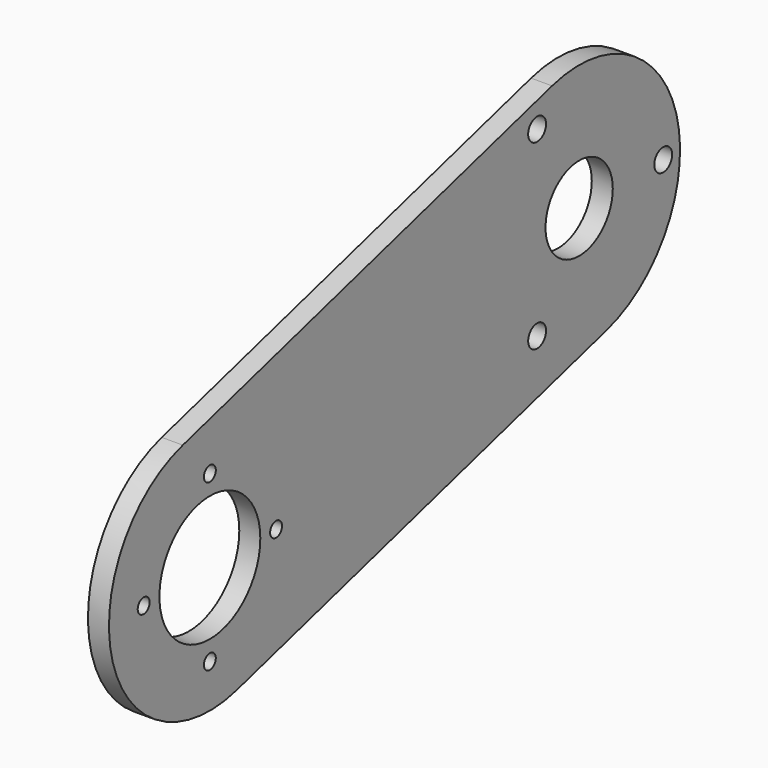
from build123d import *

# Parameters (mm, degrees)
F0_R     = 19.05
F0_R_2   = 12.7
F1_DEPTH = 6.35
F2_D     = 4.4958
F3_D     = 6.7564


with BuildPart() as f1:
    # F0 (on Right) → F1 (new body)
    with BuildSketch(Plane.YZ):
        with BuildLine():
            Line((-129.2399760129, -75.5637942416), (10.2268421053, -36.7017942416))
            ThreePointArc((10.2268421053, -36.7017942416), (36.7017942416, 10.2268421053), (-10.2268421053, 36.7017942416))
            Line((-10.2268421053, 36.7017942416), (-149.6936602234, -2.1602057584))
            ThreePointArc((-149.6936602234, -2.1602057584), (-176.1686123598, -49.0888421053), (-129.2399760129, -75.5637942416))
        make_face()
        with Locations((-139.4668181181, -38.862)):
            Circle(F0_R, mode=Mode.SUBTRACT)
        Circle(F0_R_2, mode=Mode.SUBTRACT)
    extrude(amount=F1_DEPTH)

    # F2 (through all)
    with Locations(Plane(origin=(0, 0, 0), x_dir=(0, 1, 0), z_dir=(-1, 0, 0))):
        with Locations((-139.4668181181, 13.862), (-164.4668181181, 38.862), (-114.4668181181, 38.862), (-139.4668181181, 63.862)):
            Hole(F2_D / 2)

    # F3 (through all)
    with Locations(Plane(origin=(0, 0, 0), x_dir=(0, 1, 0), z_dir=(-1, 0, 0))):
        with Locations((-15.875, -27.4963065702), (-15.875, 27.4963065702), (31.75, 0)):
            Hole(F3_D / 2)


solid = f1.part
